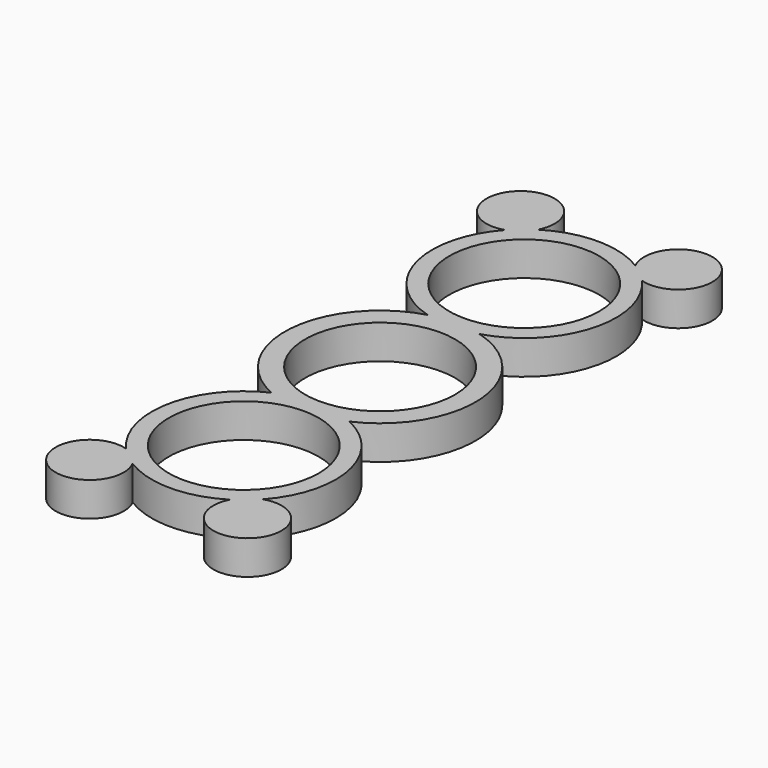
from build123d import *

# Parameters (mm, degrees)
F0_R     = 11
F1_DEPTH = 5


with BuildPart() as f1:
    # F0 (on Top) → F1 (new body)
    with BuildSketch(Plane.XY):
        with BuildLine():
            ThreePointArc((5.727074, -12.775), (13.962034, 1.030345), (3.789754, 13.477305))
            ThreePointArc((3.789754, 13.477305), (12.986285, 22.745771), (10.03516, 35.464714))
            ThreePointArc((10.03516, 35.464714), (14.784115, 44.053479), (7.150481, 37.885248))
            ThreePointArc((7.150481, 37.885248), (0, 39.934456), (-7.150481, 37.885248))
            ThreePointArc((-7.150481, 37.885248), (-14.784115, 44.053479), (-10.03516, 35.464714))
            ThreePointArc((-10.03516, 35.464714), (-12.986285, 22.745771), (-3.789754, 13.477305))
            ThreePointArc((-3.789754, 13.477305), (-13.962034, 1.030345), (-5.727074, -12.775))
            ThreePointArc((-5.727074, -12.775), (-13.230968, -22.318303), (-10.03516, -34.030258))
            ThreePointArc((-10.03516, -34.030258), (-14.784115, -42.619022), (-7.150481, -36.450792))
            ThreePointArc((-7.150481, -36.450792), (0, -38.5), (7.150481, -36.450792))
            ThreePointArc((7.150481, -36.450792), (14.784115, -42.619022), (10.03516, -34.030258))
            ThreePointArc((10.03516, -34.030258), (13.230968, -22.318303), (5.727074, -12.775))
        make_face()
        with Locations((0, -25)):
            Circle(F0_R, mode=Mode.SUBTRACT)
        Circle(F0_R, mode=Mode.SUBTRACT)
        with Locations((0, 26.434456)):
            Circle(F0_R, mode=Mode.SUBTRACT)
    extrude(amount=F1_DEPTH)


solid = f1.part
